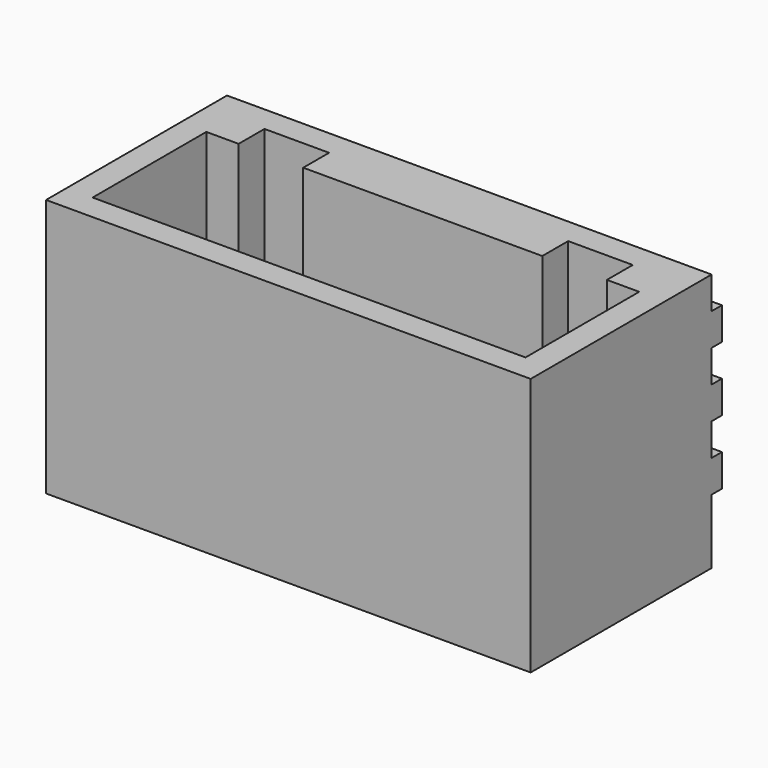
from build123d import *

# Parameters (mm, degrees)
F0_W     = 15
F0_H     = 7
F1_DEPTH = 1
F2_W     = 15
F2_H     = 7
F3_DEPTH = 7
F4_W     = 15
F4_H     = 1
F5_DEPTH = 0.4


with BuildPart() as f1:
    # F0 (on Top) → F1 (new body)
    with BuildSketch(Plane.XY):
        Rectangle(F0_W, F0_H)
    extrude(amount=F1_DEPTH)

    # F2 (on face) → F3 (join)
    with BuildSketch(Plane.XY.offset(1)):
        Rectangle(F2_W, F2_H)
        Polygon((-6.7, -2.7), (-6.7, 1.7), (-5.7, 1.7), (-5.7, 2.7), (-3.7, 2.7), (-3.7, 1.7), (3.7, 1.7), (3.7, 2.7), (5.7, 2.7), (5.7, 1.7), (6.7, 1.7), (6.7, -2.7), align=None, mode=Mode.SUBTRACT)
    extrude(amount=F3_DEPTH)

    # F4 (on face) → F5 (join)
    with BuildSketch(Plane(origin=(0, 3.5, 0), x_dir=(-1, 0, 0), z_dir=(0, 1, 0))):
        with Locations((0, 6.5)):
            Rectangle(F4_W, F4_H)
        with Locations((0, 4.5)):
            Rectangle(F4_W, F4_H)
        with Locations((0, 2.5)):
            Rectangle(F4_W, F4_H)
        with Locations((0, 6.5)):
            Rectangle(F4_W, F4_H)
    extrude(amount=F5_DEPTH)


solid = f1.part
